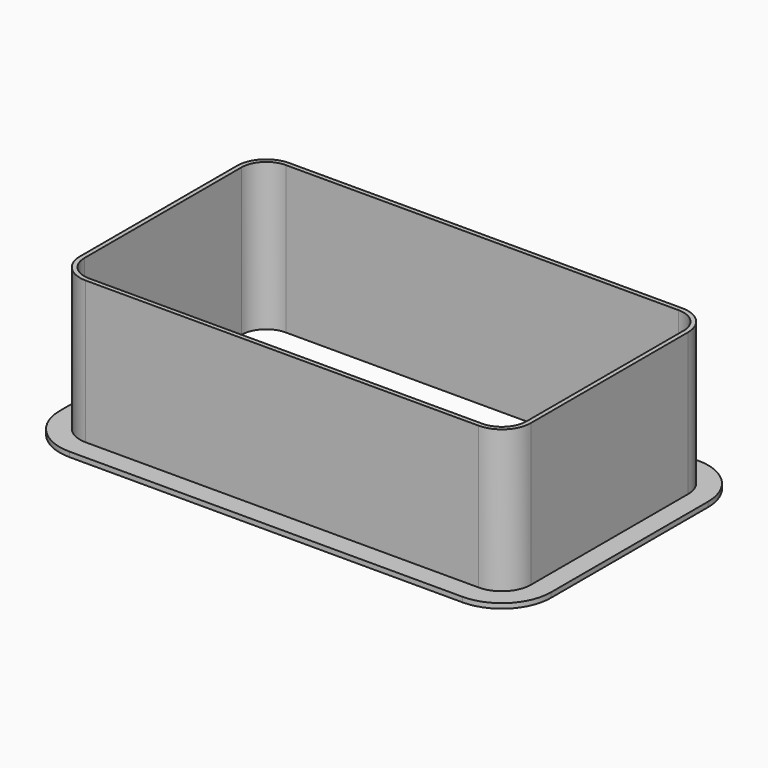
from build123d import *

# Parameters (mm, degrees)
F1_DEPTH = 12
F2_DEPTH = 0.4


with BuildPart() as f1:
    # F0 (on Top) → F1 (new body)
    with BuildSketch(Plane.XY):
        with BuildLine():
            Line((-18.36, 8), (-18.36, -8))
            ThreePointArc((-18.36, -8), (-17.668772, -9.668772), (-16, -10.36))
            Line((-16, -10.36), (16, -10.36))
            ThreePointArc((16, -10.36), (17.668772, -9.668772), (18.36, -8))
            Line((18.36, -8), (18.36, 8))
            ThreePointArc((18.36, 8), (17.668772, 9.668772), (16, 10.36))
            Line((16, 10.36), (-16, 10.36))
            ThreePointArc((-16, 10.36), (-17.668772, 9.668772), (-18.36, 8))
        make_face()
        with BuildLine():
            ThreePointArc((18, -8), (17.414214, -9.414214), (16, -10))
            Line((16, -10), (-16, -10))
            ThreePointArc((-16, -10), (-17.414214, -9.414214), (-18, -8))
            Line((-18, -8), (-18, 8))
            ThreePointArc((-18, 8), (-17.414214, 9.414214), (-16, 10))
            Line((-16, 10), (16, 10))
            ThreePointArc((16, 10), (17.414214, 9.414214), (18, 8))
            Line((18, 8), (18, -8))
        make_face(mode=Mode.SUBTRACT)
    extrude(amount=F1_DEPTH)

    # F0 (on Top) → F2 (join)
    with BuildSketch(Plane.XY):
        with BuildLine():
            Line((-20, 8), (-20, -8))
            ThreePointArc((-20, -8), (-18.828427, -10.828427), (-16, -12))
            Line((-16, -12), (16, -12))
            ThreePointArc((16, -12), (18.828427, -10.828427), (20, -8))
            Line((20, -8), (20, 8))
            ThreePointArc((20, 8), (18.828427, 10.828427), (16, 12))
            Line((16, 12), (-16, 12))
            ThreePointArc((-16, 12), (-18.828427, 10.828427), (-20, 8))
        make_face()
        with BuildLine():
            ThreePointArc((-16, -10.36), (-17.668772, -9.668772), (-18.36, -8))
            Line((-18.36, -8), (-18.36, 8))
            ThreePointArc((-18.36, 8), (-17.668772, 9.668772), (-16, 10.36))
            Line((-16, 10.36), (16, 10.36))
            ThreePointArc((16, 10.36), (17.668772, 9.668772), (18.36, 8))
            Line((18.36, 8), (18.36, -8))
            ThreePointArc((18.36, -8), (17.668772, -9.668772), (16, -10.36))
            Line((16, -10.36), (-16, -10.36))
        make_face(mode=Mode.SUBTRACT)
    extrude(amount=F2_DEPTH)


solid = f1.part
